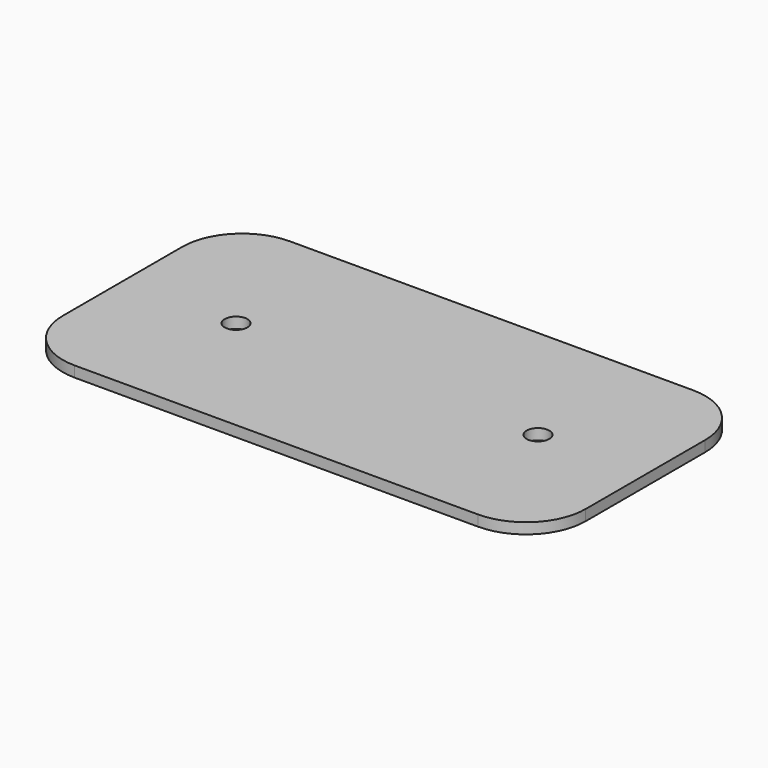
from build123d import *

# Parameters (mm, degrees)
F0_R     = 19
F1_DEPTH = 18


with BuildPart() as f1:
    # F0 (on Top) → F1 (new body)
    with BuildSketch(Plane.XY):
        with BuildLine():
            Line((79.915271, 225), (-595.084729, 225))
            ThreePointArc((-595.084729, 225), (-665.795407, 195.710678), (-695.084729, 125))
            Line((-695.084729, 125), (-695.084729, -125))
            ThreePointArc((-695.084729, -125), (-665.795407, -195.710678), (-595.084729, -225))
            Line((-595.084729, -225), (79.915271, -225))
            ThreePointArc((79.915271, -225), (150.625949, -195.710678), (179.915271, -125))
            Line((179.915271, -125), (179.915271, 125))
            ThreePointArc((179.915271, 125), (150.625949, 195.710678), (79.915271, 225))
        make_face()
        with Locations((-505.084729, 0)):
            Circle(F0_R, mode=Mode.SUBTRACT)
        Circle(F0_R, mode=Mode.SUBTRACT)
    extrude(amount=F1_DEPTH)


solid = f1.part
